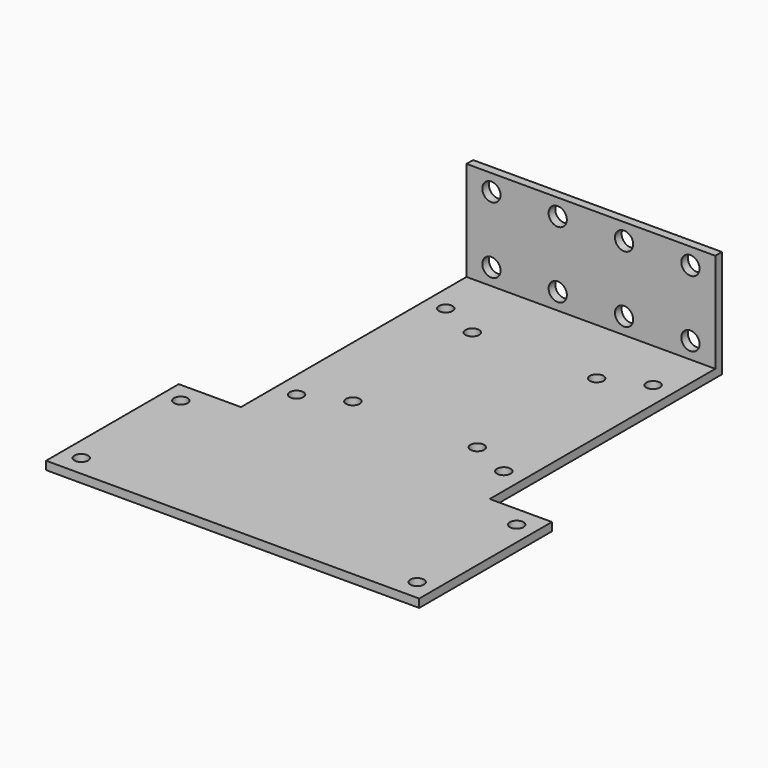
from build123d import *

# Parameters (mm, degrees)
F0_W     = 90
F0_H     = 110
F1_DEPTH = 26
F2_W     = 108
F2_H     = 24
F3_DEPTH = 90.001
F5_D     = 4.4
F6_W     = 15
F6_H     = 70
F7_DEPTH = 26.001
F9_D     = 3.3


with BuildPart() as f1:
    # F0 (on Top) → F1 (new body)
    with BuildSketch(Plane.XY):
        Rectangle(F0_W, F0_H)
    extrude(amount=F1_DEPTH)

    # F2 (on face) → F3 (cut, through all)
    with BuildSketch(Plane.YZ.offset(45)):
        with Locations((-1, 14)):
            Rectangle(F2_W, F2_H)
    extrude(amount=-F3_DEPTH, mode=Mode.SUBTRACT)

    # F5 (through all)
    with Locations(Plane(origin=(0, 55, 0), x_dir=(-1, 0, 0), z_dir=(0, 1, 0))):
        with Locations((-8, 22), (8, 22), (8, 6), (-8, 6), (-24, 22), (24, 22), (24, 6), (-24, 6)):
            Hole(F5_D / 2)

    # F6 (on face) → F7 (cut, through all)
    with BuildSketch(Plane(origin=(0, 0, 0), x_dir=(1, 0, 0), z_dir=(0, 0, -1))):
        with Locations((-37.5, -20)):
            Rectangle(F6_W, F6_H)
        with Locations((37.5, -20)):
            Rectangle(F6_W, F6_H)
    extrude(amount=-F7_DEPTH, mode=Mode.SUBTRACT)

    # F9 (through all)
    with Locations(Plane.XY.offset(2)):
        with Locations((25, 40.5), (15, 36), (-15, 36), (-25, 40.5), (-25, -4.5), (-15, 0), (15, 0), (25, -4.5), (40.5, -20), (40.5, -50), (-40.5, -50), (-40.5, -20)):
            Hole(F9_D / 2)


solid = f1.part
